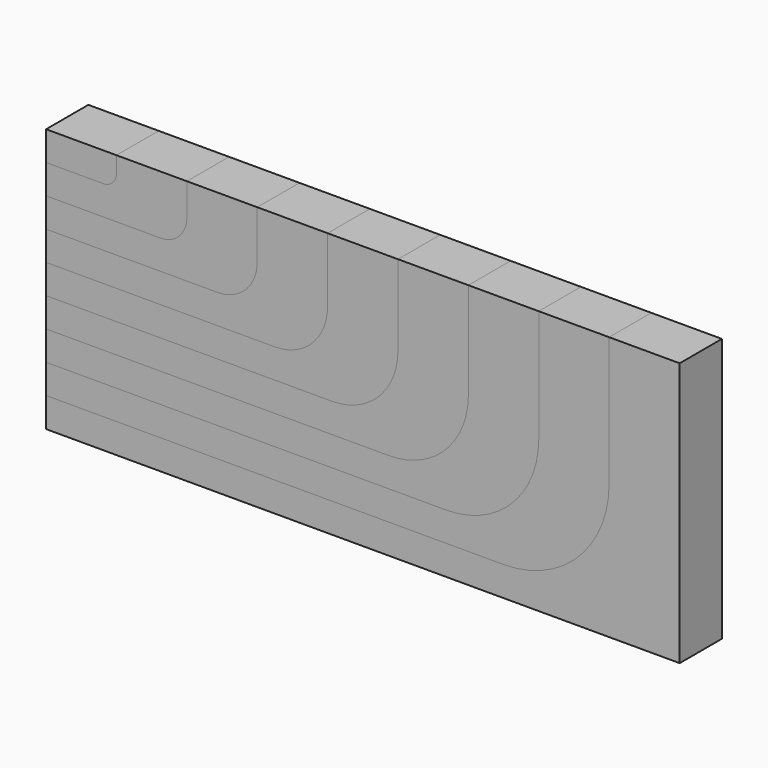
from build123d import *

# Parameters (mm, degrees)
F1_DEPTH = 25.4
F2_DEPTH = 25.4


with BuildPart() as f1:
    # F0 (on Front) → F1 (new body)
    with BuildSketch(Plane.XZ):
        with BuildLine():
            Line((-93.1418, 55.753), (-93.1418, 63.5))
            Line((-93.1418, 63.5), (-127, 63.5))
            Line((-127, 63.5), (-127, 49.403))
            Line((-127, 49.403), (-99.4918, 49.403))
            ThreePointArc((-99.4918, 49.403), (-95.001672, 51.262872), (-93.1418, 55.753))
        make_face()
        with BuildLine():
            Line((-25.4254, 40.259), (-25.4254, 63.5))
            Line((-25.4254, 63.5), (-59.2836, 63.5))
            Line((-59.2836, 63.5), (-59.2836, 48.006))
            ThreePointArc((-59.2836, 48.006), (-63.003344, 39.025744), (-71.9836, 35.306))
            Line((-71.9836, 35.306), (-127, 35.306))
            Line((-127, 35.306), (-127, 21.209))
            Line((-127, 21.209), (-44.4754, 21.209))
            ThreePointArc((-44.4754, 21.209), (-31.005016, 26.788616), (-25.4254, 40.259))
        make_face()
        with BuildLine():
            Line((42.291, 24.765), (42.291, 63.5))
            Line((42.291, 63.5), (8.4328, 63.5))
            Line((8.4328, 63.5), (8.4328, 32.512))
            ThreePointArc((8.4328, 32.512), (0.993312, 14.551488), (-16.9672, 7.112))
            Line((-16.9672, 7.112), (-127, 7.112))
            Line((-127, 7.112), (-127, -6.985))
            Line((-127, -6.985), (10.541, -6.985))
            ThreePointArc((10.541, -6.985), (32.99164, 2.31436), (42.291, 24.765))
        make_face()
        with BuildLine():
            Line((110.0074, 9.271), (110.0074, 63.5))
            Line((110.0074, 63.5), (76.1492, 63.5))
            Line((76.1492, 63.5), (76.1492, 17.018))
            ThreePointArc((76.1492, 17.018), (64.989968, -9.922768), (38.0492, -21.082))
            Line((38.0492, -21.082), (-127, -21.082))
            Line((-127, -21.082), (-127, -35.179))
            Line((-127, -35.179), (65.5574, -35.179))
            ThreePointArc((65.5574, -35.179), (96.988296, -22.159896), (110.0074, 9.271))
        make_face()
        with BuildLine():
            Line((177.8, -63.5), (177.8, 63.5))
            Line((177.8, 63.5), (143.8656, 63.5))
            Line((143.8656, 63.5), (143.8656, 1.524))
            ThreePointArc((143.8656, 1.524), (128.986624, -34.397024), (93.0656, -49.276))
            Line((93.0656, -49.276), (-127, -49.276))
            Line((-127, -49.276), (-127, -63.5))
            Line((-127, -63.5), (177.8, -63.5))
        make_face()
    extrude(amount=F1_DEPTH)


with BuildPart() as f2:
    # F0 (on Front) → F2 (new body)
    with BuildSketch(Plane.XZ):
        with BuildLine():
            Line((143.8656, 1.524), (143.8656, 63.5))
            Line((143.8656, 63.5), (110.0074, 63.5))
            Line((110.0074, 63.5), (110.0074, 9.271))
            ThreePointArc((110.0074, 9.271), (96.988296, -22.159896), (65.5574, -35.179))
            Line((65.5574, -35.179), (-127, -35.179))
            Line((-127, -35.179), (-127, -49.276))
            Line((-127, -49.276), (93.0656, -49.276))
            ThreePointArc((93.0656, -49.276), (128.986624, -34.397024), (143.8656, 1.524))
        make_face()
        with BuildLine():
            Line((76.1492, 17.018), (76.1492, 63.5))
            Line((76.1492, 63.5), (42.291, 63.5))
            Line((42.291, 63.5), (42.291, 24.765))
            ThreePointArc((42.291, 24.765), (32.99164, 2.31436), (10.541, -6.985))
            Line((10.541, -6.985), (-127, -6.985))
            Line((-127, -6.985), (-127, -21.082))
            Line((-127, -21.082), (38.0492, -21.082))
            ThreePointArc((38.0492, -21.082), (64.989968, -9.922768), (76.1492, 17.018))
        make_face()
        with BuildLine():
            Line((8.4328, 32.512), (8.4328, 63.5))
            Line((8.4328, 63.5), (-25.4254, 63.5))
            Line((-25.4254, 63.5), (-25.4254, 40.259))
            ThreePointArc((-25.4254, 40.259), (-31.005016, 26.788616), (-44.4754, 21.209))
            Line((-44.4754, 21.209), (-127, 21.209))
            Line((-127, 21.209), (-127, 7.112))
            Line((-127, 7.112), (-16.9672, 7.112))
            ThreePointArc((-16.9672, 7.112), (0.993312, 14.551488), (8.4328, 32.512))
        make_face()
        with BuildLine():
            Line((-59.2836, 48.006), (-59.2836, 63.5))
            Line((-59.2836, 63.5), (-93.1418, 63.5))
            Line((-93.1418, 63.5), (-93.1418, 55.753))
            ThreePointArc((-93.1418, 55.753), (-95.001672, 51.262872), (-99.4918, 49.403))
            Line((-99.4918, 49.403), (-127, 49.403))
            Line((-127, 49.403), (-127, 35.306))
            Line((-127, 35.306), (-71.9836, 35.306))
            ThreePointArc((-71.9836, 35.306), (-63.003344, 39.025744), (-59.2836, 48.006))
        make_face()
    extrude(amount=F2_DEPTH)


solid = Compound([f1.part, f2.part])
